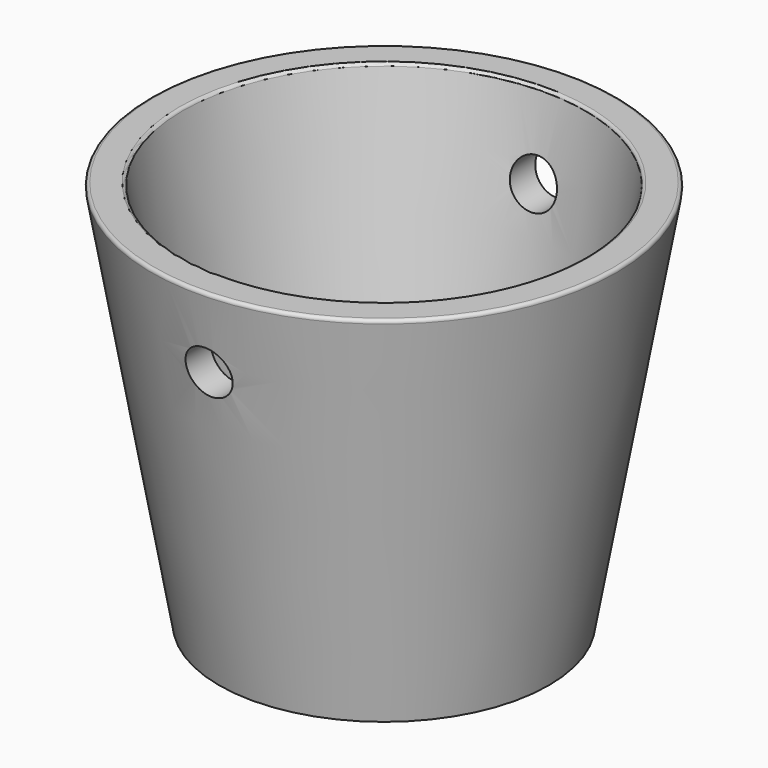
from build123d import *

# Parameters (mm, degrees)
F2_T     = -5.08
F4_DEPTH = 38.101
F5_DEPTH = 38.1010001
F6_R     = 0.508


with BuildPart() as f1:
    # F0 (on Front) → F1 (revolve)
    with BuildSketch(Plane.XZ):
        Polygon((0, 0), (0, 63.5), (-38.1, 63.5), (-26.903236725, 0), align=None)
    revolve(axis=Axis((0, 0, 31.75), (0, 0, 1)))

    # F2
    f2_openings = [f1.faces().sort_by_distance(p)[0] for p in [
        (0, 0, 63.5),
    ]]
    offset(amount=F2_T, openings=f2_openings)

    # F3 (on Front) → F4 (cut, through all)
    with BuildSketch(Plane.XZ):
        with BuildLine():
            ThreePointArc((0, 54.61), (-2.6940768363, 48.1059231637), (3.81, 50.8))
            ThreePointArc((3.81, 50.8), (2.6940768363, 53.4940768363), (0, 54.61))
        make_face()
    extrude(amount=F4_DEPTH, mode=Mode.SUBTRACT)

    # F3 (on Front) → F5 (cut, through all)
    with BuildSketch(Plane.XZ):
        with BuildLine():
            ThreePointArc((0, 54.61), (-2.6940768363, 48.1059231637), (3.81, 50.8))
            ThreePointArc((3.81, 50.8), (2.6940768363, 53.4940768363), (0, 54.61))
        make_face()
    extrude(amount=-F5_DEPTH, mode=Mode.SUBTRACT)

    # F6
    f6_edges = [f1.edges().sort_by_distance(p)[0] for p in [
        (38.1, 0, 63.5),
        (32.941633, 0, 63.5),
    ]]
    fillet(f6_edges, radius=F6_R)


solid = f1.part
